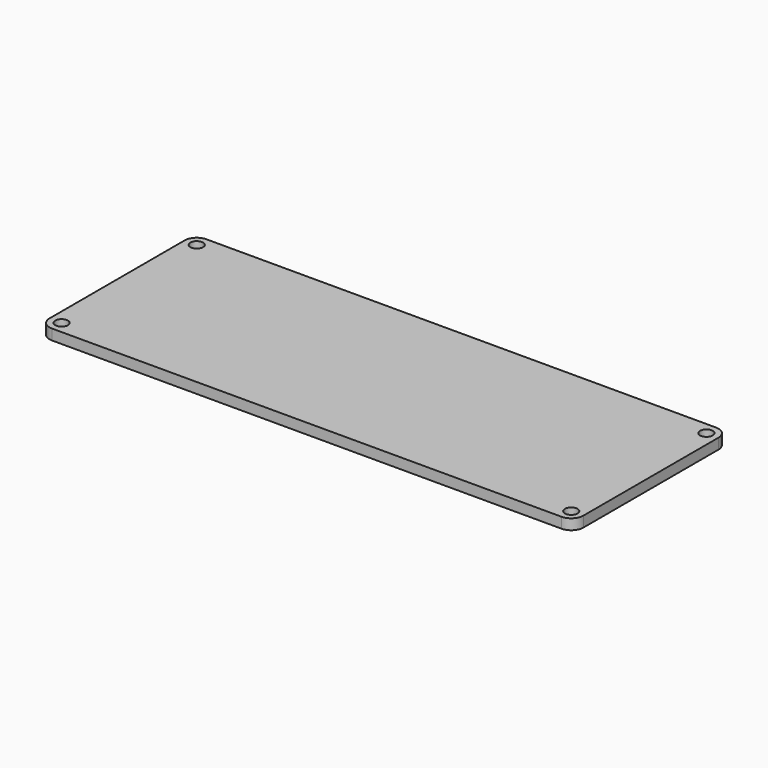
from build123d import *

# Parameters (mm, degrees)
SKETCH_R  = 1.8
PAD_DEPTH = 3


with BuildPart() as part:
    # Sketch → Pad (new body)
    with BuildSketch(Plane.XY):
        with BuildLine():
            Line((-72.55, 27.5), (72.55, 27.5))
            ThreePointArc((76, 24.05), (74.989518, 26.489518), (72.55, 27.5))
            Line((76, 24.05), (76, -24.05))
            ThreePointArc((72.55, -27.5), (74.989518, -26.489518), (76, -24.05))
            Line((72.55, -27.5), (-72.55, -27.5))
            ThreePointArc((-76, -24.05), (-74.989518, -26.489518), (-72.55, -27.5))
            Line((-76, -24.05), (-76, 24.05))
            ThreePointArc((-72.55, 27.5), (-74.989518, 26.489518), (-76, 24.05))
        make_face()
        with Locations((-72.55, -24.05)):
            Circle(SKETCH_R, mode=Mode.SUBTRACT)
        with Locations((-72.55, 24.05)):
            Circle(SKETCH_R, mode=Mode.SUBTRACT)
        with Locations((72.55, 24.05)):
            Circle(SKETCH_R, mode=Mode.SUBTRACT)
        with Locations((72.55, -24.05)):
            Circle(SKETCH_R, mode=Mode.SUBTRACT)
    extrude(amount=PAD_DEPTH)


solid = part.part
